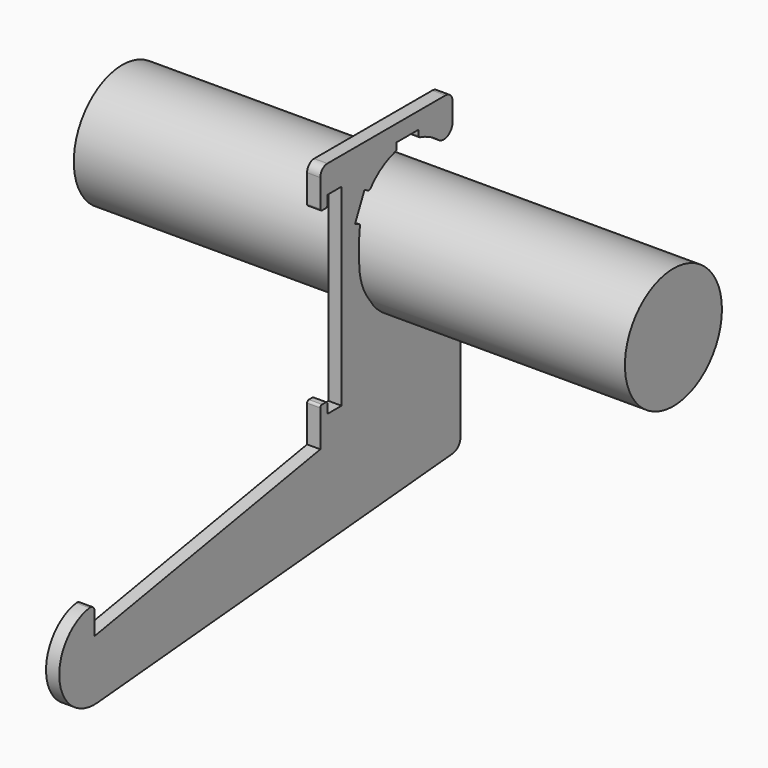
from build123d import *

# Parameters (mm, degrees)
F0_R          = 55
F1_DEPTH      = 250
F1_DEPTH_BACK = 250
F3_DEPTH      = 12
F4_R          = 8
F5_R          = 2


with BuildPart() as f1:
    # F0 (on Right) → F1 (new body, two sides)
    with BuildSketch(Plane.YZ) as f1_sk:
        with Locations((-60, 100)):
            Circle(F0_R)
    extrude(amount=F1_DEPTH)
    extrude(f1_sk.sketch, amount=-F1_DEPTH_BACK)

    # F2 (on Right) → F3 (join)
    with BuildSketch(Plane.YZ):
        with BuildLine():
            ThreePointArc((-29.205577, 167.747019), (-18.607638, 166.4936), (-12.913269, 175.519204))
            Line((-12.913269, 175.519204), (-12.913269, 200))
            Line((-12.913269, 200), (-162.913269, 200))
            Line((-162.913269, 200), (-162.913269, 165))
            Line((-162.913269, 165), (-154.913269, 165))
            Line((-154.913269, 165), (-154.913269, 175))
            Line((-154.913269, 175), (-138.813269, 175))
            Line((-138.813269, 175), (-138.813269, 0))
            Line((-138.813269, 0), (-154.913269, 0))
            Line((-154.913269, 0), (-154.913269, 10))
            Line((-154.913269, 10), (-162.913269, 10))
            Line((-162.913269, 10), (-162.913269, -25))
            Line((-162.913269, -25), (-418.963285, -70.148526))
            Line((-418.963285, -70.148526), (-418.963285, -50.148526))
            ThreePointArc((-418.963285, -50.148526), (-420.690017, -46.368881), (-424.677571, -45.19981))
            ThreePointArc((-424.677571, -45.19981), (-458.697665, -89.391609), (-415.477055, -124.63733))
            Line((-415.477055, -124.63733), (-12.941712, -89.420051))
            ThreePointArc((-12.941712, -89.420051), (-6.440496, -86.214006), (-3.813269, -79.458104))
            Line((-3.813269, -79.458104), (-3.813269, 40.519204))
            ThreePointArc((-3.813269, 40.519204), (-6.742201, 47.590272), (-13.813269, 50.519204))
            Line((-13.813269, 50.519204), (-63.813269, 50.519204))
            ThreePointArc((-63.813269, 50.519204), (-102.704142, 66.628331), (-118.813269, 105.519204))
            Line((-118.813269, 105.519204), (-118.813269, 125))
            ThreePointArc((-118.813269, 125), (-118.518786, 130.683877), (-117.638489, 136.306888))
            Line((-117.638489, 136.306888), (-123.474465, 139.028248))
            Line((-123.474465, 139.028248), (-112.909008, 161.685943))
            Line((-112.909008, 161.685943), (-107.073032, 158.964583))
            ThreePointArc((-107.073032, 158.964583), (-93.364748, 171.38653), (-76.313269, 178.560713))
            Line((-76.313269, 178.560713), (-76.313269, 185))
            Line((-76.313269, 185), (-51.313269, 185))
            Line((-51.313269, 185), (-51.313269, 178.560713))
            ThreePointArc((-51.313269, 178.560713), (-39.646812, 174.406299), (-29.205577, 167.747019))
        make_face()
    extrude(amount=F3_DEPTH)

    # F4
    f4_edges = [f1.edges().sort_by_distance(p)[0] for p in [
        (6, -162.913269, 200),
        (6, -12.913269, 200),
    ]]
    fillet(f4_edges, radius=F4_R)

    # F5
    f5_edges = [f1.edges().sort_by_distance(p)[0] for p in [
        (6, -162.913269, 165),
        (6, -162.913269, 10),
        (6, -154.913269, 165),
        (6, -107.073032, 158.964583),
        (6, -117.638489, 136.306888),
        (6, -76.313269, 178.560713),
        (6, -51.313269, 178.560713),
        (6, -154.913269, 10),
    ]]
    fillet(f5_edges, radius=F5_R)


solid = f1.part
